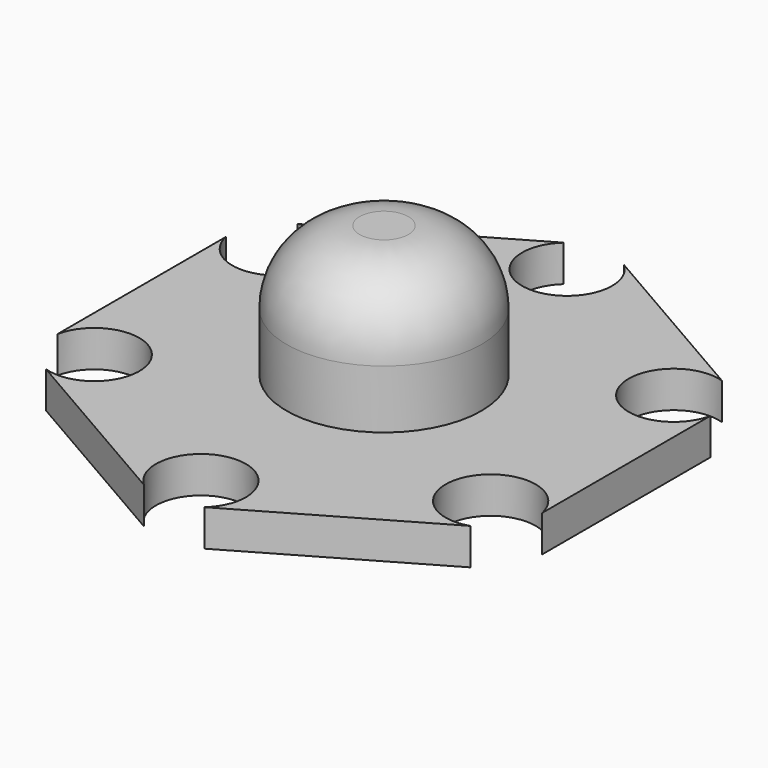
from build123d import *

# Parameters (mm, degrees)
F1_DEPTH = 1.5
F2_R     = 4
F3_DEPTH = 5.4
F4_R     = 3


with BuildPart() as f1:
    # F0 (on Top) → F1 (new body)
    with BuildSketch(Plane.XY):
        with BuildLine():
            Line((9.95, -4.314368), (9.95, 4.314368))
            ThreePointArc((9.95, 4.314368), (6.538492, 3.775), (8.711352, 6.459769))
            Line((8.711352, 6.459769), (1.238648, 10.774137))
            ThreePointArc((1.238648, 10.774137), (0, 7.55), (-1.238648, 10.774137))
            Line((-1.238648, 10.774137), (-8.711352, 6.459769))
            ThreePointArc((-8.711352, 6.459769), (-6.538492, 3.775), (-9.95, 4.314368))
            Line((-9.95, 4.314368), (-9.95, -4.314368))
            ThreePointArc((-9.95, -4.314368), (-6.538492, -3.775), (-8.711352, -6.459769))
            Line((-8.711352, -6.459769), (-1.238648, -10.774137))
            ThreePointArc((-1.238648, -10.774137), (0, -7.55), (1.238648, -10.774137))
            Line((1.238648, -10.774137), (8.711352, -6.459769))
            ThreePointArc((8.711352, -6.459769), (6.538492, -3.775), (9.95, -4.314368))
        make_face()
    extrude(amount=-F1_DEPTH)

    # F2 (on face) → F3 (join)
    with BuildSketch(Plane.XY):
        Circle(F2_R)
    extrude(amount=F3_DEPTH)

    # F4
    f4_edges = [f1.edges().sort_by_distance(p)[0] for p in [
        (-4, 0, 5.4),
    ]]
    fillet(f4_edges, radius=F4_R)


solid = f1.part
